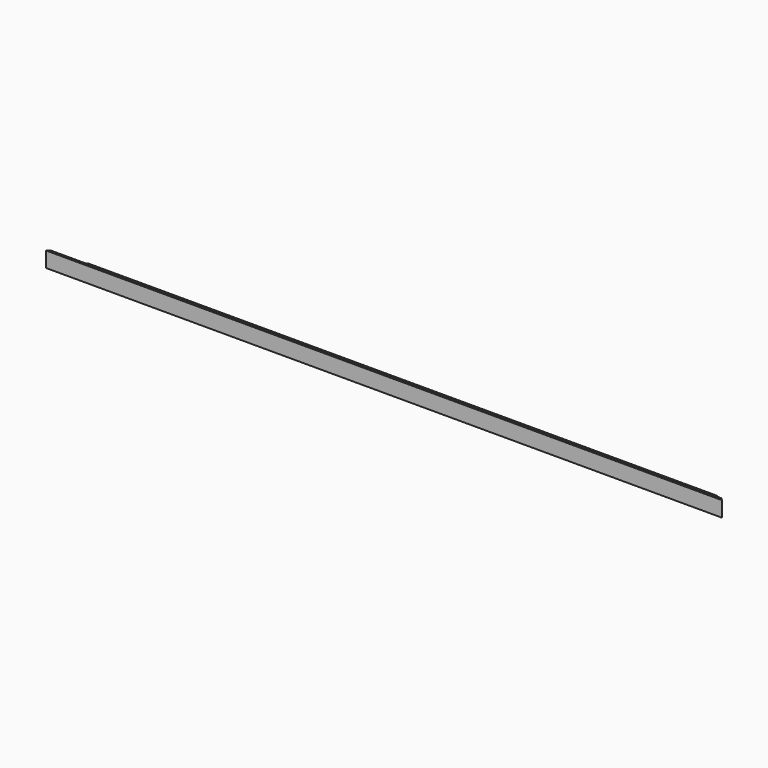
from build123d import *

# Parameters (mm, degrees)
BOX021_W               = 30
BOX021_H               = 100
BOX021_DEPTH           = 30
BOX021_PLACEMENT_ANGLE = 45
BOX020_W               = 30
BOX020_H               = 100
BOX020_DEPTH           = 30
BOX020_PLACEMENT_ANGLE = -45
PAD_DEPTH              = 876


with BuildPart() as cube006:
    # Box021 → Box021 (new body)
    with BuildSketch(Plane.XY):
        with Locations((15, 50)):
            Rectangle(BOX021_W, BOX021_H)
    extrude(amount=BOX021_DEPTH)


with BuildPart() as cube006_1:
    # Box021 placement: moved
    add(cube006.part.moved(Location((873, -3, -3))).rotate(Axis((873, -3, -3), (0, 0, 1)), BOX021_PLACEMENT_ANGLE))


with BuildPart() as cube:
    # Box020 → Box020 (new body)
    with BuildSketch(Plane.XY):
        with Locations((15, 50)):
            Rectangle(BOX020_W, BOX020_H)
    extrude(amount=BOX020_DEPTH)


with BuildPart() as cube_1:
    # Box020 placement: moved
    add(cube.part.moved(Location((-24.213203, 18.213203, -3))).rotate(Axis((-24.213203, 18.213203, -3), (0, 0, 1)), BOX020_PLACEMENT_ANGLE))


with BuildPart() as rahmen1:
    # Sketch → Pad (new body)
    with BuildSketch(Plane(origin=(-3, -3, -3), x_dir=(0, 1, 0), z_dir=(1, 0, 0))):
        Polygon((0, 0), (30, 0), (30, 3), (3, 3), (3, 20), (0, 20), align=None)
    extrude(amount=PAD_DEPTH)

    # Cut: cut Cube
    add(cube_1.part, mode=Mode.SUBTRACT)

    # Cut001: cut Cube006
    add(cube006_1.part, mode=Mode.SUBTRACT)


solid = rahmen1.part
